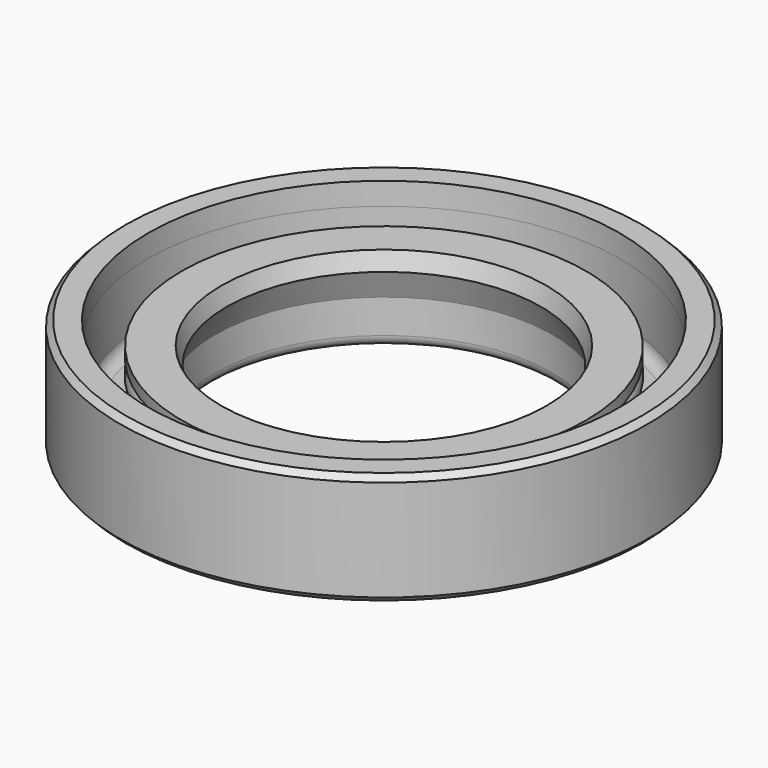
from build123d import *


with BuildPart() as f1:
    # F0 (on Front) → F1 (revolve)
    with BuildSketch(Plane.XZ):
        with BuildLine():
            ThreePointArc((-16.775, 7), (-18.025, 5.75), (-16.775, 4.5))
            ThreePointArc((-16.775, 4.5), (-15.891117, 4.866117), (-15.525, 5.75))
            ThreePointArc((-15.525, 5.75), (-15.891117, 6.633883), (-16.775, 7))
        make_face()
    revolve(axis=Axis((0, 0, 8.900777), (0, 0, 1)))


with BuildPart() as f2:
    # F0 (on Front) → F2 (revolve)
    with BuildSketch(Plane.XZ):
        with BuildLine():
            Line((-21, 3), (-21, 8))
            Line((-21, 8), (-22, 8))
            Line((-22, 8), (-22, 3))
            ThreePointArc((-22, 3), (-21.414214, 1.585786), (-20, 1))
            Line((-20, 1), (-16, 1))
            Line((-16, 1), (-16, 2))
            Line((-16, 2), (-18, 2))
            Line((-18, 2), (-20, 2))
            ThreePointArc((-20, 2), (-20.707107, 2.292893), (-21, 3))
        make_face()
    revolve(axis=Axis((0, 0, 8.900777), (0, 0, 1)))


with BuildPart() as f3:
    # F0 (on Front) → F3 (revolve)
    with BuildSketch(Plane.XZ):
        with BuildLine():
            Line((-21, 10), (-23, 10))
            Line((-23, 10), (-23.5, 9.5))
            Line((-23.5, 9.5), (-23.5, 0.5))
            Line((-23.5, 0.5), (-23, 0))
            Line((-23, 0), (-22.5, 0))
            Line((-22.5, 0), (-22.5, 0.25))
            Line((-22.5, 0.25), (-22, 0.25))
            Line((-22, 0.25), (-22, 0))
            Line((-22, 0), (-21.5, 0))
            Line((-21.5, 0), (-21.5, 0.25))
            Line((-21.5, 0.25), (-21, 0.25))
            Line((-21, 0.25), (-21, 0))
            Line((-21, 0), (-18, 0))
            Line((-18, 0), (-18, 0.25))
            Line((-18, 0.25), (-17.5, 0.25))
            Line((-17.5, 0.25), (-17.5, 0))
            Line((-17.5, 0), (-17, 0))
            Line((-17, 0), (-17, 0.25))
            Line((-17, 0.25), (-16.5, 0.25))
            Line((-16.5, 0.25), (-16.5, 0))
            Line((-16.5, 0), (-16, 0))
            ThreePointArc((-16, 0), (-15.292893, 0.292893), (-15, 1))
            Line((-15, 1), (-15, 4))
            Line((-15, 4), (-14, 6.5))
            Line((-14, 6.5), (-14.481005, 8))
            Line((-14.481005, 8), (-18, 8))
            Line((-18, 8), (-18, 7))
            Line((-18, 7), (-16.775, 7))
            ThreePointArc((-16.775, 7), (-15.891117, 6.633883), (-15.525, 5.75))
            ThreePointArc((-15.525, 5.75), (-15.891117, 4.866117), (-16.775, 4.5))
            Line((-16.775, 4.5), (-16.482811, 3.665175))
            ThreePointArc((-16.482811, 3.665175), (-16.546949, 3.21068), (-16.954741, 3))
            Line((-16.954741, 3), (-18, 3))
            Line((-18, 3), (-18, 2))
            Line((-18, 2), (-16, 2))
            Line((-16, 2), (-16, 1))
            Line((-16, 1), (-20, 1))
            ThreePointArc((-20, 1), (-21.414214, 1.585786), (-22, 3))
            Line((-22, 3), (-22, 8))
            Line((-22, 8), (-21, 8))
            Line((-21, 8), (-21, 10))
        make_face()
    revolve(axis=Axis((0, 0, 8.900777), (0, 0, 1)))


solid = Compound([f1.part, f2.part, f3.part])
